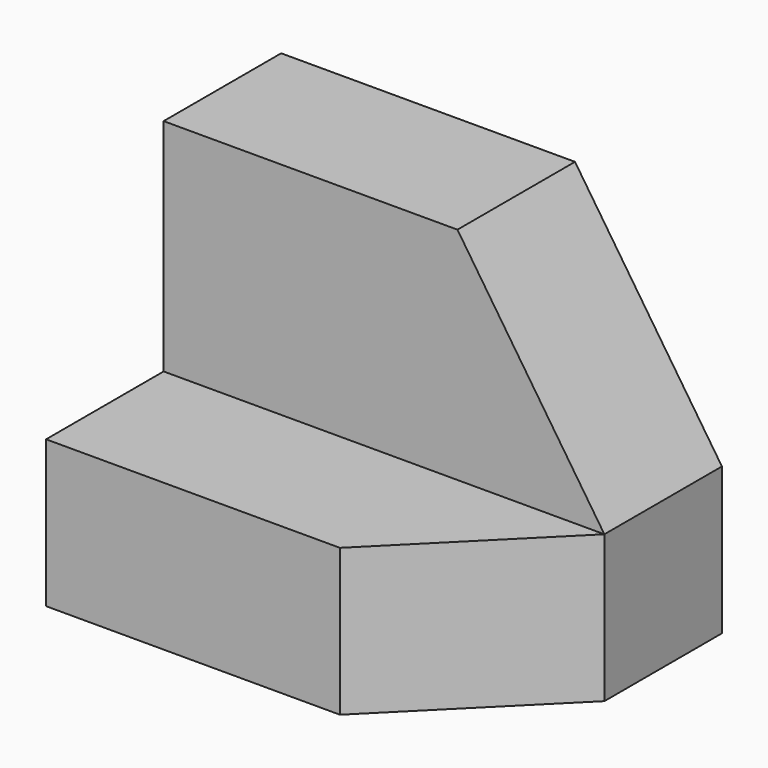
from build123d import *

# Parameters (mm, degrees)
F1_DEPTH = 38.1
F3_DEPTH = 12.7
F5_DEPTH = 12.7


with BuildPart() as f1:
    # F0 (on Right) → F1 (new body)
    with BuildSketch(Plane.YZ):
        Polygon((-54.462473, 32.109874), (-54.462473, 19.409874), (-29.062473, 19.409874), (-29.062473, 51.159874), (-41.762473, 51.159874), (-41.762473, 32.109874), align=None)
    extrude(amount=F1_DEPTH)

    # F2 (on face) → F3 (cut)
    with BuildSketch(Plane.XZ.offset(41.762473)):
        Polygon((38.1, 51.159874), (25.4, 51.159874), (38.1, 32.109874), align=None)
    extrude(amount=-F3_DEPTH, mode=Mode.SUBTRACT)

    # F4 (on face) → F5 (cut)
    with BuildSketch(Plane.XY.offset(32.109874)):
        Polygon((38.1, -54.462473), (38.1, -41.762473), (25.4, -54.462473), align=None)
    extrude(amount=-F5_DEPTH, mode=Mode.SUBTRACT)


solid = f1.part
